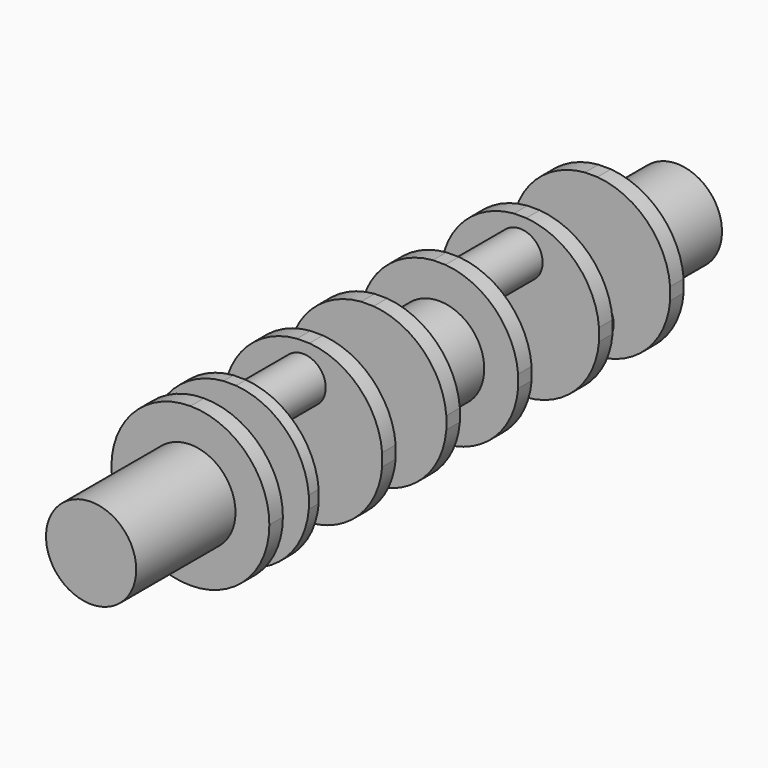
from build123d import *

# Parameters (mm, degrees)
F0_W          = 9.525
F0_H          = 88.9
F1_DEPTH      = 88.9
F2_R          = 25.4
F3_DEPTH      = 69.85
F3_DEPTH_BACK = 30.734
F4_DEPTH      = 12.192
F5_R          = 12.7
F6_DEPTH      = 42.1005
F7_R          = 12.7
F8_DEPTH      = 35.6218531678
F9_R          = 25.4
F10_DEPTH     = 40.9996094773
F11_R         = 12.7
F12_DEPTH     = 47.4110707312
F13_R         = 12.7
F14_DEPTH     = 40.5094634056
F16_DEPTH     = 263.7934967819
F17_R         = 25.4
F18_DEPTH     = 50.8
F19_DEPTH     = 2.54


with BuildPart() as f1:
    # F0 (on Right) → F1 (new body)
    with BuildSketch(Plane.YZ):
        with Locations((46.1899, 0)):
            Rectangle(F0_W, F0_H)
    extrude(amount=F1_DEPTH)



with BuildPart() as f1b:
    # F0 (on Right) → F1, piece 2 (new body)
    with BuildSketch(Plane.YZ):
        with Locations((73.9394, 0)):
            Rectangle(F0_W, F0_H)
    extrude(amount=F1_DEPTH)


with BuildPart() as f1c:
    # F0 (on Right) → F1, piece 3 (new body)
    with BuildSketch(Plane.YZ):
        with Locations((125.5649, 0)):
            Rectangle(F0_W, F0_H)
    extrude(amount=F1_DEPTH)


with BuildPart() as f1d:
    # F0 (on Right) → F1, piece 4 (new body)
    with BuildSketch(Plane.YZ):
        with Locations((170.7117531678, 0)):
            Rectangle(F0_W, F0_H)
    extrude(amount=F1_DEPTH)


with BuildPart() as f1e:
    # F0 (on Right) → F1, piece 5 (new body)
    with BuildSketch(Plane.YZ):
        with Locations((221.2363626451, 0)):
            Rectangle(F0_W, F0_H)
    extrude(amount=F1_DEPTH)


with BuildPart() as f1f:
    # F0 (on Right) → F1, piece 6 (new body)
    with BuildSketch(Plane.YZ):
        with Locations((278.1724333763, 0)):
            Rectangle(F0_W, F0_H)
    extrude(amount=F1_DEPTH)


with BuildPart() as f1g:
    # F0 (on Right) → F1, piece 7 (new body)
    with BuildSketch(Plane.YZ):
        with Locations((328.2068967819, 0)):
            Rectangle(F0_W, F0_H)
    extrude(amount=F1_DEPTH)


with BuildPart() as f1_1:
    add(f1.part)

    add(f1b.part)  # F3 merges F1b
    # F2 (on face) → F3 (join, two sides)
    with BuildSketch(Plane.XZ.offset(-41.4274)) as f3_sk:
        with Locations((44.45, 0)):
            Circle(F2_R)
    extrude(amount=F3_DEPTH)
    extrude(f3_sk.sketch, amount=-F3_DEPTH_BACK)

    # F2 (on face) → F4 (cut)
    with BuildSketch(Plane.XZ.offset(-41.4274)):
        with BuildLine():
            ThreePointArc((44.45, 44.45), (75.8808964237, 31.4308964237), (88.9, 0))
            Line((88.9, 0), (88.9, 44.45))
            Line((88.9, 44.45), (44.45, 44.45))
        make_face()
        with BuildLine():
            ThreePointArc((0, -1.192e-07), (13.0191035341, 31.4308963816), (44.45, 44.45))
            Line((44.45, 44.45), (0, 44.45))
            Line((0, 44.45), (0, -1.192e-07))
        make_face()
        with BuildLine():
            Line((0, -44.45), (44.45, -44.45))
            ThreePointArc((44.45, -44.45), (13.0191036184, -31.4308964659), (0, -1.192e-07))
            Line((0, -1.192e-07), (0, -44.45))
        make_face()
        with BuildLine():
            Line((88.9, -44.45), (88.9, 0))
            ThreePointArc((88.9, 0), (75.8808964237, -31.4308964237), (44.45, -44.45))
            Line((44.45, -44.45), (88.9, -44.45))
        make_face()
    extrude(amount=-F4_DEPTH, mode=Mode.SUBTRACT)


    add(f1c.part)  # F6 merges F1c
    # F5 (on face) → F6 (join, through all)
    with BuildSketch(Plane.XZ.offset(-120.8024)):
        with Locations((44.45, 25.4)):
            Circle(F5_R)
    extrude(amount=F6_DEPTH)


    add(f1d.part)  # F8 merges F1d
    # F7 (on face) → F8 (join, through all)
    with BuildSketch(Plane(origin=(0, 130.3274, 0), x_dir=(-1, 0, 0), z_dir=(0, 1, 0))):
        with Locations((-44.45, -25.4)):
            Circle(F7_R)
    extrude(amount=F8_DEPTH)


    add(f1e.part)  # F10 merges F1e
    # F9 (on face) → F10 (join, through all)
    with BuildSketch(Plane(origin=(0, 175.4742531678, 0), x_dir=(-1, 0, 0), z_dir=(0, 1, 0))):
        with Locations((-44.45, 0)):
            Circle(F9_R)
    extrude(amount=F10_DEPTH)


    add(f1f.part)  # F12 merges F1f
    # F11 (on face) → F12 (join, through all)
    with BuildSketch(Plane(origin=(0, 225.9988626451, 0), x_dir=(-1, 0, 0), z_dir=(0, 1, 0))):
        with Locations((-44.45, 25.4)):
            Circle(F11_R)
    extrude(amount=F12_DEPTH)


    add(f1g.part)  # F14 merges F1g
    # F13 (on face) → F14 (join, through all)
    with BuildSketch(Plane(origin=(0, 282.9349333763, 0), x_dir=(-1, 0, 0), z_dir=(0, 1, 0))):
        with Locations((-44.45, -25.4)):
            Circle(F13_R)
    extrude(amount=F14_DEPTH)

    # F15 (on face) → F16 (cut, through all)
    with BuildSketch(Plane.XZ.offset(-69.1769)):
        with BuildLine():
            ThreePointArc((0, 3.5263449072), (12.9203503952, 31.5296496048), (40.9236550928, 44.45))
            Line((40.9236550928, 44.45), (0, 44.45))
            Line((0, 44.45), (0, 3.5263449072))
        make_face()
        with BuildLine():
            Line((0, -44.45), (40.9236550928, -44.45))
            ThreePointArc((40.9236550928, -44.45), (12.9203503952, -31.5296496048), (0, -3.5263449072))
            Line((0, -3.5263449072), (0, -44.45))
        make_face()
        with BuildLine():
            Line((88.9, -44.45), (88.9, -3.5263449072))
            ThreePointArc((88.9, -3.5263449072), (75.9796496048, -31.5296496048), (47.9763449072, -44.45))
            Line((47.9763449072, -44.45), (88.9, -44.45))
        make_face()
        with BuildLine():
            ThreePointArc((47.9763449072, 44.45), (75.9796496048, 31.5296496048), (88.9, 3.5263449072))
            Line((88.9, 3.5263449072), (88.9, 44.45))
            Line((88.9, 44.45), (47.9763449072, 44.45))
        make_face()
    extrude(amount=-F16_DEPTH, mode=Mode.SUBTRACT)

    # F17 (on face) → F18 (join)
    with BuildSketch(Plane(origin=(0, 332.9693967819, 0), x_dir=(-1, 0, 0), z_dir=(0, 1, 0))):
        with Locations((-44.45, 0)):
            Circle(F17_R)
    extrude(amount=F18_DEPTH)

    # F19 (cut): a face of the model
    f19_faces = [f1_1.faces().sort_by_distance(p)[0] for p in [
        (44.45, 78.7019, -2.2434372105),
    ]]
    extrude(f19_faces, amount=-F19_DEPTH, mode=Mode.SUBTRACT)


solid = f1_1.part
